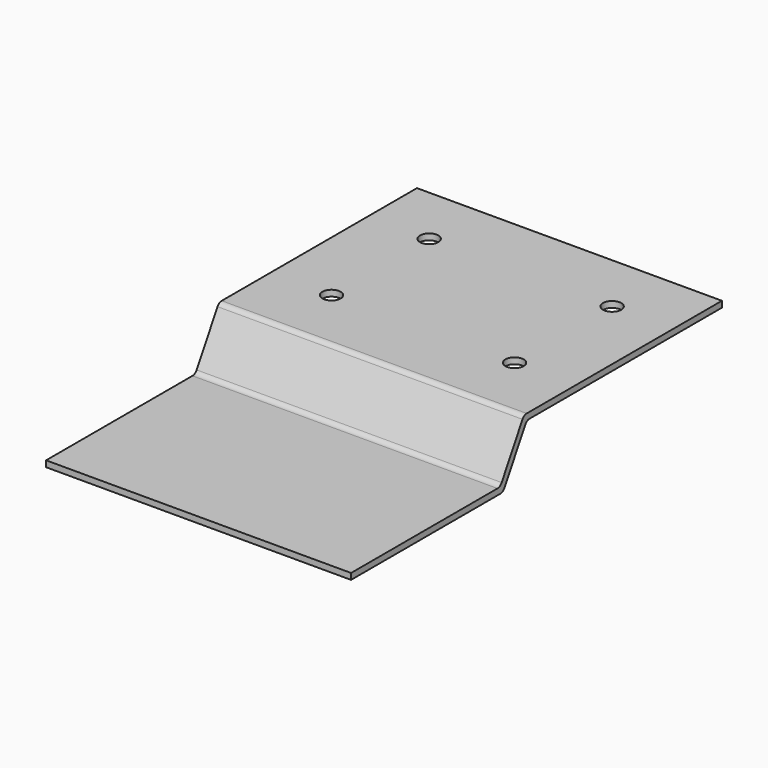
from build123d import *

# Parameters (mm, degrees)
F1_DEPTH = 125
F2_R     = 7.5
F3_DEPTH = 46.962524


with BuildPart() as f1:
    # F0 (on Right) → F1 (new body, symmetric)
    with BuildSketch(Plane.YZ):
        with BuildLine():
            Line((-197.113249, 0), (0, 0))
            Line((0, 0), (0, 5))
            Line((0, 5), (-200, 5))
            ThreePointArc((-200, 5), (-202.5, 4.330127), (-204.330127, 2.5))
            Line((-204.330127, 2.5), (-225.669873, -34.461524))
            ThreePointArc((-225.669873, -34.461524), (-227.5, -36.291651), (-230, -36.961524))
            Line((-230, -36.961524), (-380, -36.961524))
            Line((-380, -36.961524), (-380, -41.961524))
            Line((-380, -41.961524), (-227.113249, -41.961524))
            ThreePointArc((-227.113249, -41.961524), (-224.613249, -41.291651), (-222.783122, -39.461524))
            Line((-222.783122, -39.461524), (-201.443376, -2.5))
            ThreePointArc((-201.443376, -2.5), (-199.613249, -0.669873), (-197.113249, 0))
        make_face()
    extrude(amount=F1_DEPTH, both=True)

    # F2 (on face) → F3 (cut, through all)
    with BuildSketch(Plane.XY.offset(5)):
        with Locations((-75, -150)):
            Circle(F2_R)
        with Locations((75, -150)):
            Circle(F2_R)
        with Locations((75, -50)):
            Circle(F2_R)
        with Locations((-75, -50)):
            Circle(F2_R)
    extrude(amount=-F3_DEPTH, mode=Mode.SUBTRACT)


solid = f1.part
